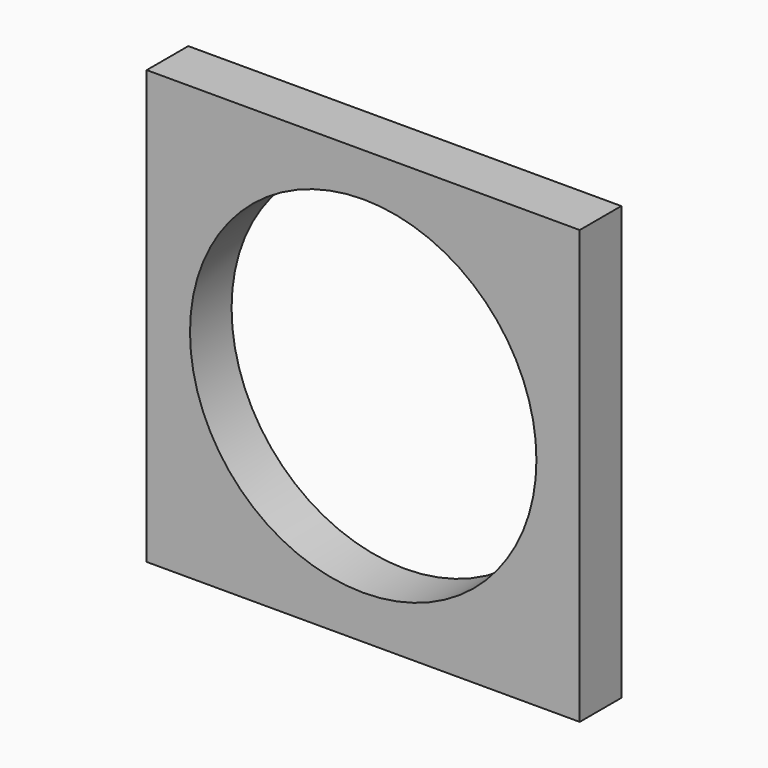
from build123d import *

# Parameters (mm, degrees)
F0_W     = 50
F0_H     = 6
F1_DEPTH = 50
F2_R     = 20
F3_DEPTH = 25


with BuildPart() as f1:
    # F0 (on Top) → F1 (new body)
    with BuildSketch(Plane.XY):
        Rectangle(F0_W, F0_H)
    extrude(amount=F1_DEPTH)

    # F2 (on face) → F3 (cut)
    with BuildSketch(Plane.XZ.offset(3)):
        with Locations((0, 25)):
            Circle(F2_R)
    extrude(amount=-F3_DEPTH, mode=Mode.SUBTRACT)


solid = f1.part
